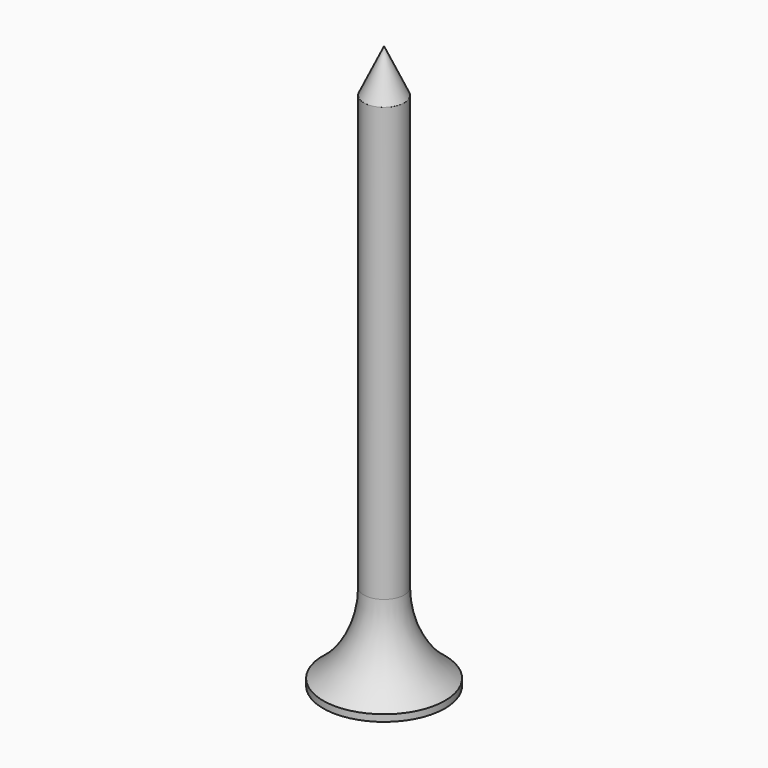
from build123d import *


with BuildPart() as f1:
    # F0 (on Front) → F1 (revolve)
    with BuildSketch(Plane.XZ):
        with BuildLine():
            ThreePointArc((0, 3.302), (3.337526, 2.592299), (5.55625, 0))
            Line((5.55625, 0), (7.14375, 0))
            Line((7.14375, 0), (7.14375, 0.79375))
            ThreePointArc((7.14375, 0.79375), (3.640248, 4.906238), (2.38125, 10.16))
            Line((2.38125, 10.16), (2.38125, 60.96))
            Line((2.38125, 60.96), (0, 66.04))
            Line((0, 66.04), (0, 3.302))
        make_face()
    revolve(axis=Axis((0, 0, 50.282862), (0, 0, 1)))


solid = f1.part
